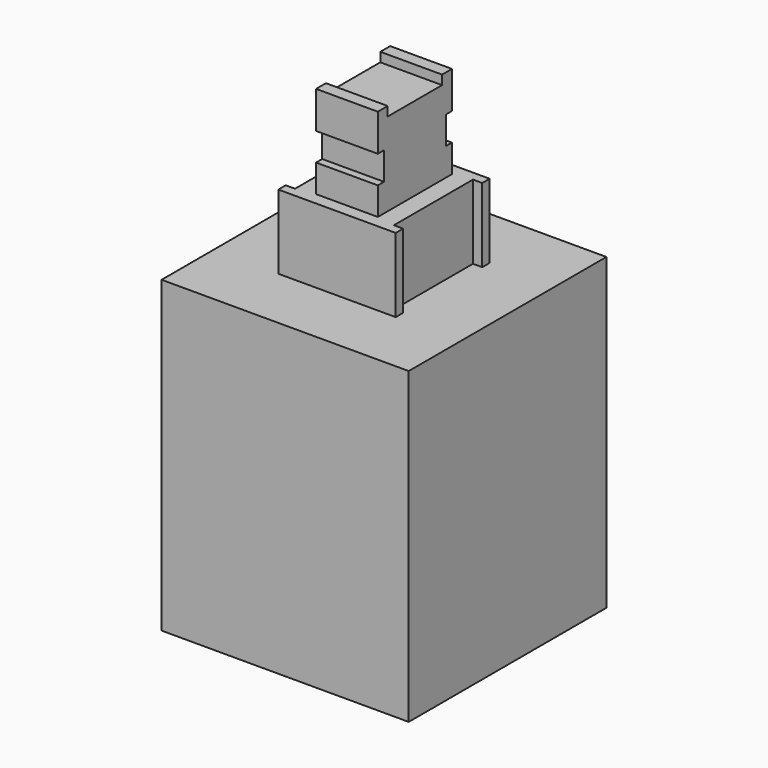
from build123d import *

# Parameters (mm, degrees)
SKETCH_W      = 8
SKETCH_H      = 8
PAD_DEPTH     = 10
PAD001_DEPTH  = 2.4
SKETCH002_W   = 2
SKETCH002_H   = 3
PAD002_DEPTH  = 3
SKETCH003_W   = 0.25
SKETCH003_H   = 0.9
SKETCH003_W_2 = 2.2
SKETCH003_H_2 = 0.3
POCKET_DEPTH  = 5.001


with BuildPart() as part:
    # Sketch → Pad (new body)
    with BuildSketch(Plane.XY):
        Rectangle(SKETCH_W, SKETCH_H)
    extrude(amount=PAD_DEPTH)

    # Sketch001 (on Face6 of Pad) → Pad001 (join)
    with BuildSketch(Plane.XY.offset(10)):
        Polygon((-1.9, 1.9), (1.9, 1.9), (1.9, 1.6), (1.6, 1.6), (1.6, -1.6), (1.9, -1.6), (1.9, -1.9), (-1.9, -1.9), (-1.9, -1.6), (-1.6, -1.6), (-1.6, 1.6), (-1.9, 1.6), align=None)
    extrude(amount=PAD001_DEPTH)

    # Sketch002 (on Face19 of Pad001) → Pad002 (join)
    with BuildSketch(Plane.XY.offset(12.4)):
        Rectangle(SKETCH002_W, SKETCH002_H)
    extrude(amount=PAD002_DEPTH)

    # Sketch003 (on Face22 of Pad002) → Pocket (cut, through all)
    with BuildSketch(Plane.YZ.offset(1)):
        with Locations((-1.375, 13.75)):
            Rectangle(SKETCH003_W, SKETCH003_H)
        with Locations((1.375, 13.75)):
            Rectangle(SKETCH003_W, SKETCH003_H)
        with Locations((0, 15.25)):
            Rectangle(SKETCH003_W_2, SKETCH003_H_2)
    extrude(amount=-POCKET_DEPTH, mode=Mode.SUBTRACT)


solid = part.part
